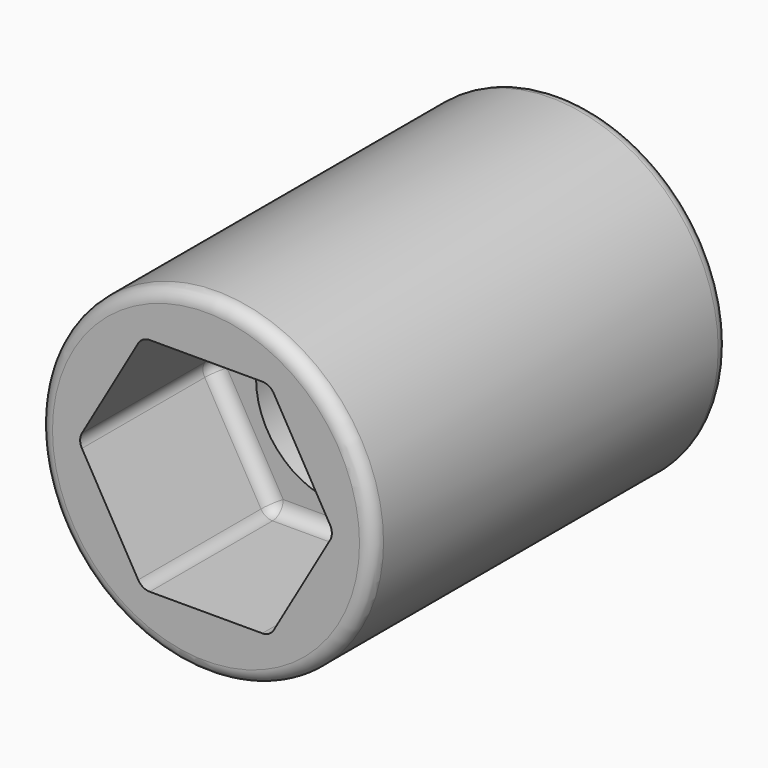
from build123d import *

# Parameters (mm, degrees)
F0_R     = 9.525
F1_DEPTH = 25.4
F3_DEPTH = 25.401
F4_DEPTH = 11.1252
F6_DEPTH = 9.525
F7_R     = 0.762
F8_R     = 0.762
F9_R     = 0.762


with BuildPart() as f1:
    # F0 (on Front) → F1 (new body)
    with BuildSketch(Plane.XZ):
        Circle(F0_R)
    extrude(amount=F1_DEPTH)

    # F2 (on Front) → F3 (cut, through all)
    with BuildSketch(Plane.XZ):
        with BuildLine():
            ThreePointArc((4.7625, 0), (3.367596, 3.367596), (0, 4.7625))
            ThreePointArc((0, 4.7625), (-3.367596, 3.367596), (-4.7625, 0))
            ThreePointArc((-4.7625, 0), (-3.367596, -3.367596), (0, -4.7625))
            ThreePointArc((0, -4.7625), (3.367596, -3.367596), (4.7625, 0))
        make_face()
    extrude(amount=F3_DEPTH, mode=Mode.SUBTRACT)

    # F2 (on Front) → F4 (cut)
    with BuildSketch(Plane.XZ):
        with BuildLine():
            Line((0, 4.7625), (-4.7625, 4.7625))
            Line((-4.7625, 4.7625), (-4.7625, 0))
            ThreePointArc((-4.7625, 0), (-3.367596, 3.367596), (0, 4.7625))
        make_face()
        with BuildLine():
            Line((4.7625, 4.7625), (0, 4.7625))
            ThreePointArc((0, 4.7625), (3.367596, 3.367596), (4.7625, 0))
            Line((4.7625, 0), (4.7625, 4.7625))
        make_face()
        with BuildLine():
            ThreePointArc((0, -4.7625), (-3.367596, -3.367596), (-4.7625, 0))
            Line((-4.7625, 0), (-4.7625, -4.7625))
            Line((-4.7625, -4.7625), (0, -4.7625))
        make_face()
        with BuildLine():
            Line((4.7625, -4.7625), (4.7625, 0))
            ThreePointArc((4.7625, 0), (3.367596, -3.367596), (0, -4.7625))
            Line((0, -4.7625), (4.7625, -4.7625))
        make_face()
    extrude(amount=F4_DEPTH, mode=Mode.SUBTRACT)

    # F5 (on face) → F6 (cut)
    with BuildSketch(Plane.XZ.offset(25.4)):
        Polygon((3.65125, 6.324151), (-3.65125, 6.324151), (-7.3025, 0), (-3.65125, -6.324151), (3.65125, -6.324151), (7.3025, 0), align=None)
    extrude(amount=-F6_DEPTH, mode=Mode.SUBTRACT)

    # F7
    f7_edges = [f1.edges().sort_by_distance(p)[0] for p in [
        (-9.525, 0, 0),
        (-9.525, -25.4, 0),
    ]]
    fillet(f7_edges, radius=F7_R)

    # F8
    f8_edges = [f1.edges().sort_by_distance(p)[0] for p in [
        (3.65125, -20.6375, 6.324151),
        (3.65125, -20.6375, -6.324151),
        (-3.65125, -20.6375, -6.324151),
        (-7.3025, -20.6375, 0),
        (-3.65125, -20.6375, 6.324151),
        (7.3025, -20.6375, 0),
    ]]
    fillet(f8_edges, radius=F8_R)

    # F9
    f9_edges = [f1.edges().sort_by_distance(p)[0] for p in [
        (0, -15.875, 6.324151),
    ]]
    fillet(f9_edges, radius=F9_R)


solid = f1.part
